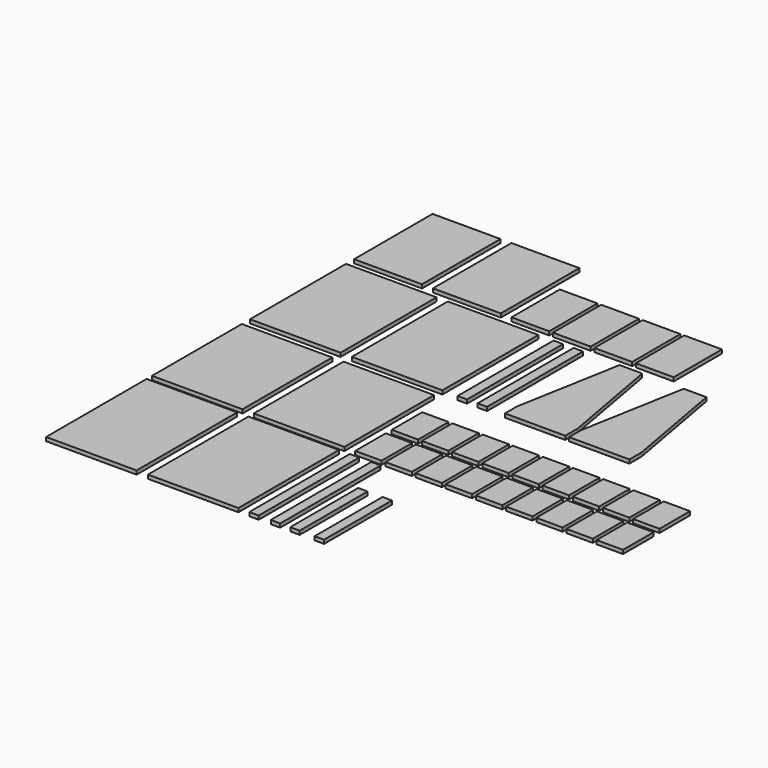
from build123d import *

# Parameters (mm, degrees)
F0_W     = 609.6
F0_H     = 846.074
F0_H_2   = 755.65
F0_H_3   = 807.974
F0_W_2   = 63.5
F0_H_4   = 571.5
F0_W_3   = 177.8
F0_H_5   = 256.54
F0_W_4   = 457.2
F0_H_6   = 660.4
F0_W_5   = 254
F0_H_7   = 406.4
F1_DEPTH = 25.4


with BuildPart() as f1:
    # F0 (on Top) → F1 (new body)
    with BuildSketch(Plane.XY):
        with Locations((304.8, 423.037)):
            Rectangle(F0_W, F0_H)
        with Locations((990.362193, 423.037)):
            Rectangle(F0_W, F0_H)
        with Locations((304.8, 1269.421138)):
            Rectangle(F0_W, F0_H_2)
        with Locations((990.362193, 1269.421138)):
            Rectangle(F0_W, F0_H_2)
        with Locations((304.8, 2120.593259)):
            Rectangle(F0_W, F0_H_3)
        with Locations((990.362193, 2120.593259)):
            Rectangle(F0_W, F0_H_3)
        with Locations((1429.712332, 2120.593259)):
            Rectangle(F0_W_2, F0_H_3)
        with Locations((1564.366258, 2120.593259)):
            Rectangle(F0_W_2, F0_H_3)
        with Locations((1400.154031, 423.037)):
            Rectangle(F0_W_2, F0_H)
        with Locations((1544.660843, 423.037)):
            Rectangle(F0_W_2, F0_H)
        with Locations((1676.030553, 285.75)):
            Rectangle(F0_W_2, F0_H_4)
        with Locations((1840.24278, 285.75)):
            Rectangle(F0_W_2, F0_H_4)
        with Locations((1457.304031, 1019.866138)):
            Rectangle(F0_W_3, F0_H_5)
        with Locations((1457.304031, 1327.206138)):
            Rectangle(F0_W_3, F0_H_5)
        with Locations((1660.504031, 1019.866138)):
            Rectangle(F0_W_3, F0_H_5)
        with Locations((1660.504031, 1327.206138)):
            Rectangle(F0_W_3, F0_H_5)
        with Locations((1863.704031, 1019.866138)):
            Rectangle(F0_W_3, F0_H_5)
        with Locations((1863.704031, 1327.206138)):
            Rectangle(F0_W_3, F0_H_5)
        with Locations((2066.904031, 1019.866138)):
            Rectangle(F0_W_3, F0_H_5)
        with Locations((2066.904031, 1327.206138)):
            Rectangle(F0_W_3, F0_H_5)
        with Locations((2270.104031, 1019.866138)):
            Rectangle(F0_W_3, F0_H_5)
        with Locations((2270.104031, 1327.206138)):
            Rectangle(F0_W_3, F0_H_5)
        with Locations((2473.304031, 1019.866138)):
            Rectangle(F0_W_3, F0_H_5)
        with Locations((2473.304031, 1327.206138)):
            Rectangle(F0_W_3, F0_H_5)
        with Locations((2676.504031, 1019.866138)):
            Rectangle(F0_W_3, F0_H_5)
        with Locations((2676.504031, 1327.206138)):
            Rectangle(F0_W_3, F0_H_5)
        with Locations((2879.704031, 1019.866138)):
            Rectangle(F0_W_3, F0_H_5)
        with Locations((2879.704031, 1327.206138)):
            Rectangle(F0_W_3, F0_H_5)
        with Locations((3082.904031, 1019.866138)):
            Rectangle(F0_W_3, F0_H_5)
        with Locations((3082.904031, 1327.206138)):
            Rectangle(F0_W_3, F0_H_5)
        with Locations((228.6, 2922.701163)):
            Rectangle(F0_W_4, F0_H_6)
        with Locations((759.521876, 2922.701163)):
            Rectangle(F0_W_4, F0_H_6)
        with Locations((1186.685111, 2795.701163)):
            Rectangle(F0_W_5, F0_H_7)
        with Locations((1466.085111, 2795.701163)):
            Rectangle(F0_W_5, F0_H_7)
        with Locations((1745.485111, 2795.701163)):
            Rectangle(F0_W_5, F0_H_7)
        with Locations((2024.885111, 2795.701163)):
            Rectangle(F0_W_5, F0_H_7)
        Polygon((1716.533899, 1818.206259), (1716.533899, 1716.606259), (2122.933899, 1716.606259), (2122.933899, 1818.206259), (1995.933899, 2523.056259), (1843.533899, 2523.056259), align=None)
        Polygon((2148.333899, 1818.206259), (2148.333899, 1716.606259), (2554.733899, 1716.606259), (2554.733899, 1818.206259), (2427.733899, 2523.056259), (2275.333899, 2523.056259), align=None)
    extrude(amount=F1_DEPTH)


solid = f1.part
